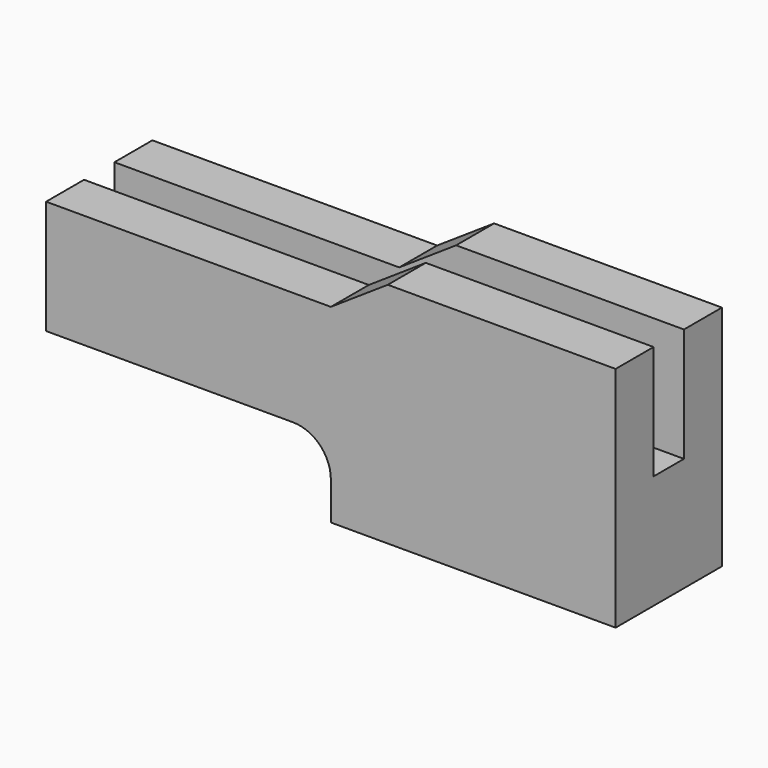
from build123d import *

# Parameters (mm, degrees)
F0_W     = 150
F0_H     = 35
F1_DEPTH = 60
F2_W     = 10
F2_H     = 30
F3_DEPTH = 150
F4_W     = 75
F4_H     = 20
F5_DEPTH = 35.001
F6_R     = 10
F8_DEPTH = 35.001


with BuildPart() as f1:
    # F0 (on Top) → F1 (new body)
    with BuildSketch(Plane.XY):
        Rectangle(F0_W, F0_H)
    extrude(amount=F1_DEPTH)

    # F2 (on face) → F3 (cut)
    with BuildSketch(Plane.YZ.offset(75)):
        with Locations((0, 45)):
            Rectangle(F2_W, F2_H)
    extrude(amount=-F3_DEPTH, mode=Mode.SUBTRACT)

    # F4 (on face) → F5 (cut, through all)
    with BuildSketch(Plane.XZ.offset(17.5)):
        with Locations((-37.5, 10)):
            Rectangle(F4_W, F4_H)
    extrude(amount=-F5_DEPTH, mode=Mode.SUBTRACT)

    # F6
    f6_edges = [f1.edges().sort_by_distance(p)[0] for p in [
        (0, 0, 20),
    ]]
    fillet(f6_edges, radius=F6_R)

    # F7 (on face) → F8 (cut, through all)
    with BuildSketch(Plane.XZ.offset(17.5)):
        Polygon((15, 60), (-75, 60), (-75, 50), (0, 50), align=None)
    extrude(amount=-F8_DEPTH, mode=Mode.SUBTRACT)


solid = f1.part
